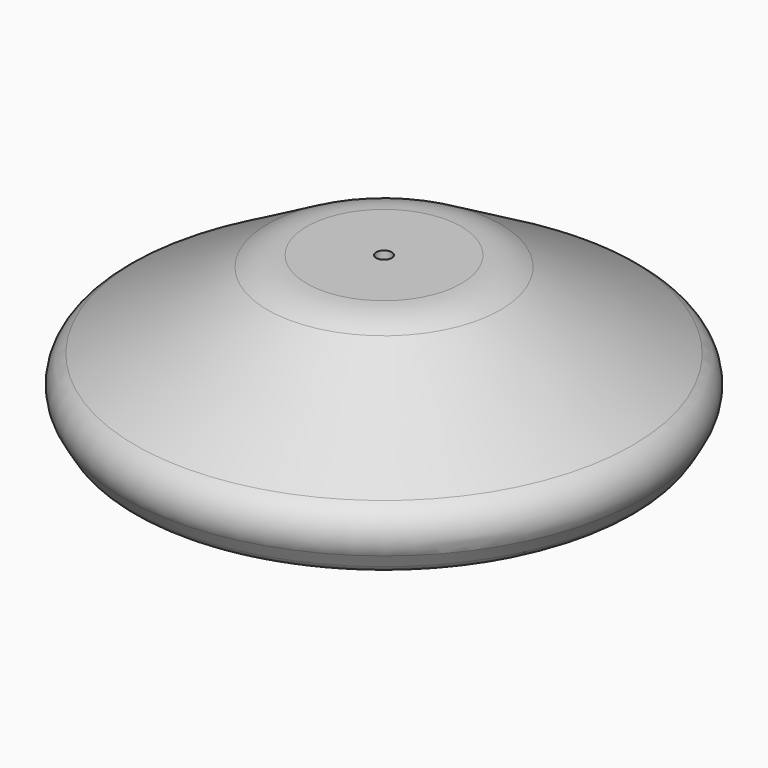
from build123d import *

# Parameters (mm, degrees)
F0_R           = 5
F1_DEPTH       = 2.8
F2_D           = 3
F2_CSINK_D     = 7.5
F2_CSINK_ANGLE = 120
F5_R           = 5
F6_DEPTH       = 4
F7_D           = 3
F8_ANGLE       = 30
F10_ANGLE      = 180
F12_COUNT      = 4
F15_OFFSET     = 0.2
F16_D          = 1


with BuildPart() as f1:
    # F0 (on Top) → F1 (new body)
    with BuildSketch(Plane.XY):
        Circle(F0_R)
    extrude(amount=F1_DEPTH)

    # F2 (through all)
    with Locations(Plane(origin=(0, 0, 0), x_dir=(1, 0, 0), z_dir=(0, 0, -1))):
        with Locations((0, 0)):
            CounterSinkHole(F2_D / 2, F2_CSINK_D / 2, counter_sink_angle=F2_CSINK_ANGLE)


with BuildPart() as f6:
    # F5 (on Top) → F6 (new body)
    with BuildSketch(Plane.XY):
        with Locations((10.5, 0)):
            Circle(F5_R)
    extrude(amount=F6_DEPTH)

    # F7 (through all)
    with Locations(Plane(origin=(0, 0, 0), x_dir=(1, 0, 0), z_dir=(0, 0, -1))):
        with Locations((10.5, 0)):
            Hole(F7_D / 2)


with BuildPart() as f6_1:
    # F8: moved
    add(f6.part.rotate(Axis((0, 2.2134934552, 0), (0, 1, 0)), F8_ANGLE))


with BuildPart() as f6_2:
    # F9: moved
    add(f6_1.part.moved(Location((0.4, 0, 1.7))))


with BuildPart() as f1_1:
    # F10: moved
    add(f1.part.rotate(Axis((0, 2.2134934552, 0), (0, 1, 0)), F10_ANGLE))


with BuildPart() as f1_2:
    # F11: moved
    add(f1_1.part.moved(Location((0, 0, 2.8))))


with BuildPart() as f12_1:
    # F12: instance of F6
    add(f6_2.part.rotate(Axis((0, 0, 2.205231227), (0, 0, 1)), 1 * 360 / F12_COUNT))


with BuildPart() as f12_2:
    # F12: instance of F6
    add(f6_2.part.rotate(Axis((0, 0, 2.205231227), (0, 0, 1)), 2 * 360 / F12_COUNT))


with BuildPart() as f12_3:
    # F12: instance of F6
    add(f6_2.part.rotate(Axis((0, 0, 2.205231227), (0, 0, 1)), 3 * 360 / F12_COUNT))


with BuildPart() as f14:
    # F13 (on Front) → F14 (revolve)
    with BuildSketch(Plane.XZ):
        with BuildLine():
            Line((0, 4), (0, 0))
            Line((0, 0), (5.2, 0))
            Line((5.2, 0), (14.7262794416, -5.5))
            ThreePointArc((14.7262794416, -5.5), (15.4850984867, -5.5999004225), (16.0923048454, -5.1339745962))
            Line((16.0923048454, -5.1339745962), (16.5923048454, -4.2679491924))
            ThreePointArc((16.5923048454, -4.2679491924), (16.7921056904, -2.7503111022), (15.8602540378, -1.5358983849))
            Line((15.8602540378, -1.5358983849), (7.4320508076, 3.3301270189))
            ThreePointArc((7.4320508076, 3.3301270189), (6.2261460331, 3.8296291314), (4.9320508076, 4))
            Line((4.9320508076, 4), (0, 4))
        make_face()
    revolve(axis=Axis((0, 0, 2.205231227), (0, 0, 1)))

    # F15: cut F1, F6, F12_2, F12_1, F12_3, each made larger all round first
    f15_tool = offset(f1_2.part, amount=F15_OFFSET, kind=Kind.INTERSECTION, mode=Mode.PRIVATE)
    add(f15_tool, mode=Mode.SUBTRACT)
    f15_tool1 = offset(f6_2.part, amount=F15_OFFSET, kind=Kind.INTERSECTION, mode=Mode.PRIVATE)
    add(f15_tool1, mode=Mode.SUBTRACT)
    f15_tool2 = offset(f12_2.part, amount=F15_OFFSET, kind=Kind.INTERSECTION, mode=Mode.PRIVATE)
    add(f15_tool2, mode=Mode.SUBTRACT)
    f15_tool3 = offset(f12_1.part, amount=F15_OFFSET, kind=Kind.INTERSECTION, mode=Mode.PRIVATE)
    add(f15_tool3, mode=Mode.SUBTRACT)
    f15_tool4 = offset(f12_3.part, amount=F15_OFFSET, kind=Kind.INTERSECTION, mode=Mode.PRIVATE)
    add(f15_tool4, mode=Mode.SUBTRACT)

    # F16 (through all)
    with Locations(Plane(origin=(0, 0, 0), x_dir=(1, 0, 0), z_dir=(0, 0, -1))):
        with Locations((0, 0)):
            Hole(F16_D / 2)


solid = f14.part
